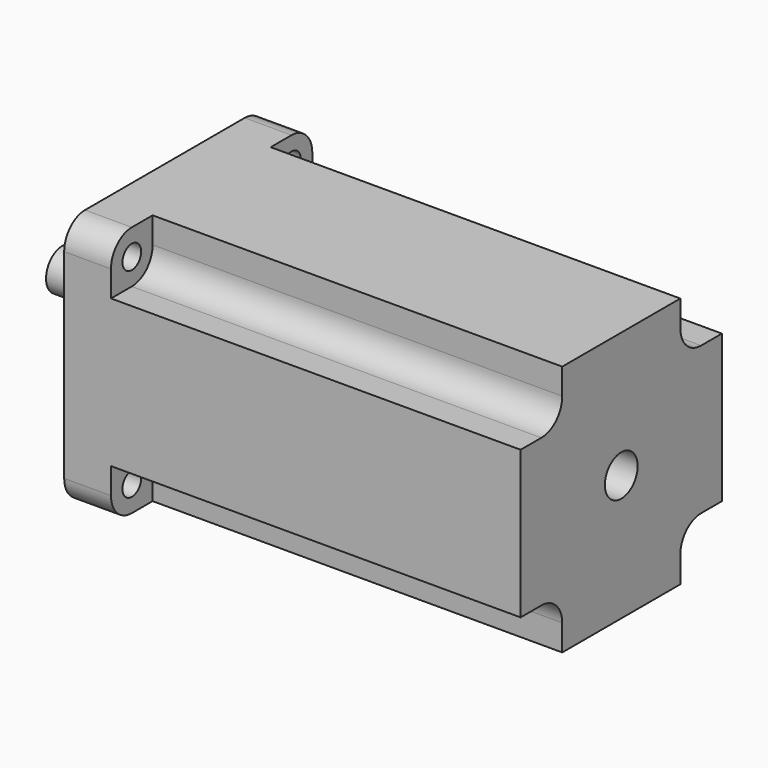
from build123d import *

# Parameters (mm, degrees)
F0_R     = 7
F1_DEPTH = 35
F0_R_2   = 30.10154
F2_DEPTH = 4.375
F3_DEPTH = 156
F0_R_3   = 4
F4_DEPTH = 16


with BuildPart() as f1:
    # F0 (on Right) → F1 (new body)
    with BuildSketch(Plane.YZ):
        Circle(F0_R)
    extrude(amount=-F1_DEPTH)

    # F0 (on Right) → F2 (join)
    with BuildSketch(Plane.YZ):
        Circle(F0_R_2)
        Circle(F0_R, mode=Mode.SUBTRACT)
    extrude(amount=-F2_DEPTH)

    # F0 (on Right) → F3 (join)
    with BuildSketch(Plane.YZ):
        with BuildLine():
            Line((-25.22, -43), (25.22, -43))
            Line((25.22, -43), (25.22, -34.11))
            ThreePointArc((25.22, -34.11), (27.8238207153, -27.8238207153), (34.11, -25.22))
            Line((34.11, -25.22), (43, -25.22))
            Line((43, -25.22), (43, 25.22))
            Line((43, 25.22), (34.11, 25.22))
            ThreePointArc((34.11, 25.22), (27.8238207153, 27.8238207153), (25.22, 34.11))
            Line((25.22, 34.11), (25.22, 43))
            Line((25.22, 43), (-25.22, 43))
            Line((-25.22, 43), (-25.22, 34.11))
            ThreePointArc((-25.22, 34.11), (-27.8238207153, 27.8238207153), (-34.11, 25.22))
            Line((-34.11, 25.22), (-43, 25.22))
            Line((-43, 25.22), (-43, -25.22))
            Line((-43, -25.22), (-34.11, -25.22))
            ThreePointArc((-34.11, -25.22), (-27.8238207153, -27.8238207153), (-25.22, -34.11))
            Line((-25.22, -34.11), (-25.22, -43))
        make_face()
        Circle(F0_R_2, mode=Mode.SUBTRACT)
        Circle(F0_R_2)
        Circle(F0_R, mode=Mode.SUBTRACT)
    extrude(amount=F3_DEPTH)

    # F0 (on Right) → F4 (join)
    with BuildSketch(Plane.YZ):
        with BuildLine():
            Line((-43, 34.11), (-43, 25.22))
            Line((-43, 25.22), (-34.11, 25.22))
            ThreePointArc((-34.11, 25.22), (-27.8238207153, 27.8238207153), (-25.22, 34.11))
            Line((-25.22, 34.11), (-25.22, 43))
            Line((-25.22, 43), (-34.11, 43))
            ThreePointArc((-34.11, 43), (-40.3961792847, 40.3961792847), (-43, 34.11))
        make_face()
        with Locations((-34.11, 34.11)):
            Circle(F0_R_3, mode=Mode.SUBTRACT)
        with BuildLine():
            Line((34.11, 25.22), (43, 25.22))
            Line((43, 25.22), (43, 34.11))
            ThreePointArc((43, 34.11), (40.3961792847, 40.3961792847), (34.11, 43))
            Line((34.11, 43), (25.22, 43))
            Line((25.22, 43), (25.22, 34.11))
            ThreePointArc((25.22, 34.11), (27.8238207153, 27.8238207153), (34.11, 25.22))
        make_face()
        with Locations((34.11, 34.11)):
            Circle(F0_R_3, mode=Mode.SUBTRACT)
        with BuildLine():
            Line((25.22, -43), (34.11, -43))
            ThreePointArc((34.11, -43), (40.3961792847, -40.3961792847), (43, -34.11))
            Line((43, -34.11), (43, -25.22))
            Line((43, -25.22), (34.11, -25.22))
            ThreePointArc((34.11, -25.22), (27.8238207153, -27.8238207153), (25.22, -34.11))
            Line((25.22, -34.11), (25.22, -43))
        make_face()
        with Locations((34.11, -34.11)):
            Circle(F0_R_3, mode=Mode.SUBTRACT)
        with BuildLine():
            Line((-34.11, -43), (-25.22, -43))
            Line((-25.22, -43), (-25.22, -34.11))
            ThreePointArc((-25.22, -34.11), (-27.8238207153, -27.8238207153), (-34.11, -25.22))
            Line((-34.11, -25.22), (-43, -25.22))
            Line((-43, -25.22), (-43, -34.11))
            ThreePointArc((-43, -34.11), (-40.3961792847, -40.3961792847), (-34.11, -43))
        make_face()
        with Locations((-34.11, -34.11)):
            Circle(F0_R_3, mode=Mode.SUBTRACT)
    extrude(amount=F4_DEPTH)


solid = f1.part
